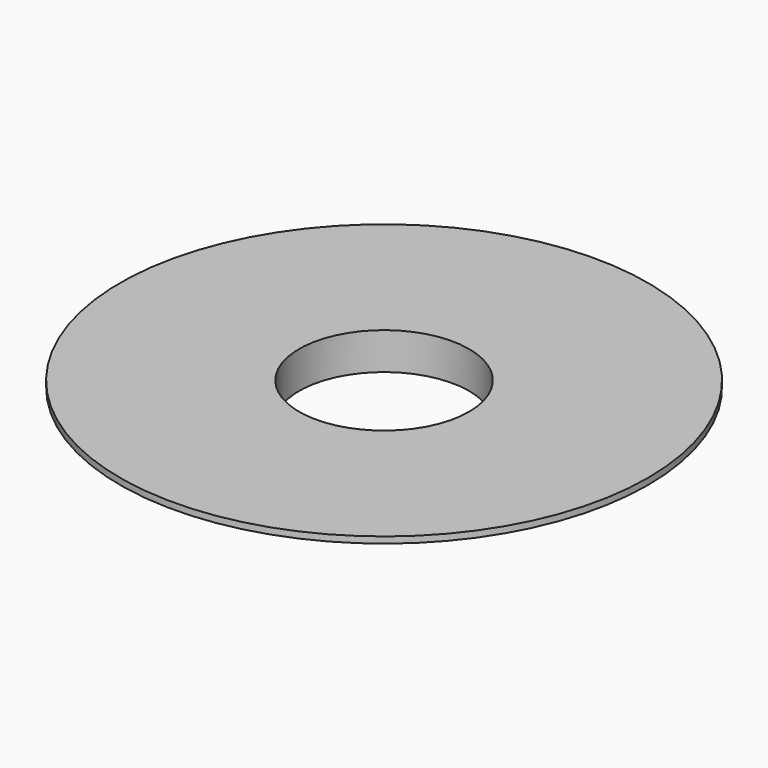
from build123d import *

# Parameters (mm, degrees)
CYLINDER497_R          = 16.1
CYLINDER497_DEPTH      = 7
CYLINDER499_R          = 50
CYLINDER499_DEPTH      = 1.2
CYLINDER498_R          = 16.9
CYLINDER498_DEPTH      = 7
CUT238_PLACEMENT_ANGLE = 180


with BuildPart() as cylinder497:
    # Cylinder497 → Cylinder497 (new body)
    with BuildSketch(Plane.XY):
        Circle(CYLINDER497_R)
    extrude(amount=CYLINDER497_DEPTH)


with BuildPart() as cylinder499:
    # Cylinder499 → Cylinder499 (new body)
    with BuildSketch(Plane.XY):
        Circle(CYLINDER499_R)
    extrude(amount=CYLINDER499_DEPTH)


with BuildPart() as blades_top:
    # Cylinder498 → Cylinder498 (new body)
    with BuildSketch(Plane.XY):
        Circle(CYLINDER498_R)
    extrude(amount=CYLINDER498_DEPTH)

    # Fusion255: union Cylinder499
    add(cylinder499.part)

    # Cut238: cut Cylinder497
    add(cylinder497.part, mode=Mode.SUBTRACT)


with BuildPart() as blades_top_1:
    # Cut238 placement: moved
    add(blades_top.part.moved(Location((0, 0, 112.2))).rotate(Axis((0, 0, 112.2), (1, 0, 0)), CUT238_PLACEMENT_ANGLE))


solid = blades_top_1.part
